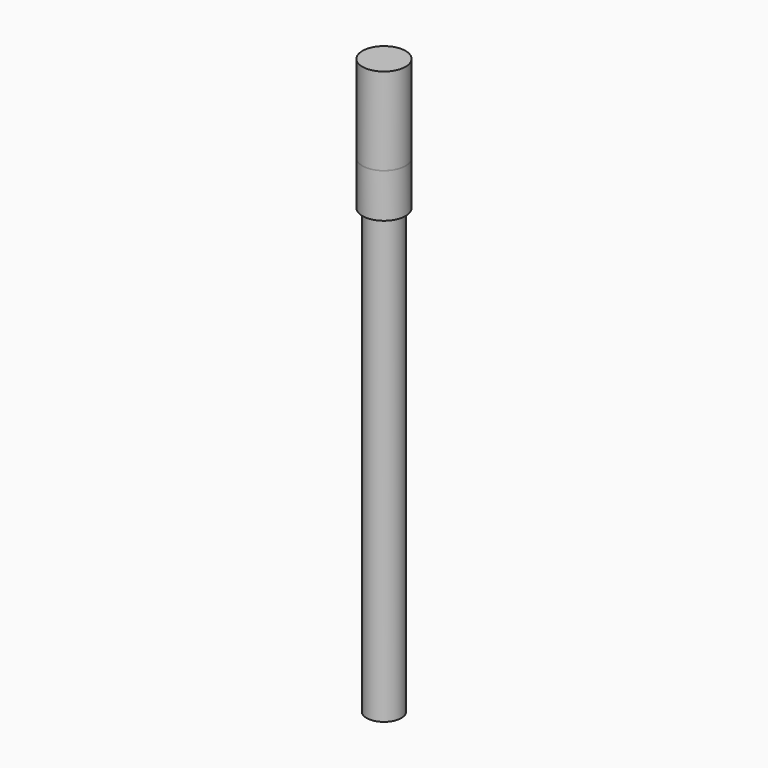
from build123d import *

# Parameters (mm, degrees)
F0_W = 0.85
F0_H = 122


with BuildPart() as f1:
    # F0 (on Front) → F1 (revolve)
    with BuildSketch(Plane.XZ):
        with Locations((-3.925, -61)):
            Rectangle(F0_W, F0_H)
    revolve(axis=Axis((0, 0, -4.035743), (0, 0, -1)))


with BuildPart() as f3:
    # F2 (on Front) → F3 (revolve)
    with BuildSketch(Plane.XZ):
        with BuildLine():
            Line((-4.636599, -10.944117), (-4.636599, 0.037941))
            ThreePointArc((-4.636599, 0.037941), (-3.278113, 3.313853), (0, 4.667017))
            Line((0, 4.667017), (0, 5.496188))
            ThreePointArc((0, 5.496188), (-3.826729, 3.882431), (-5.407882, 0.042116))
            Line((-5.407882, 0.042116), (-5.407882, -10.944117))
            Line((-5.407882, -10.944117), (-4.636599, -10.944117))
        make_face()
    revolve(axis=Axis((0, 0, 1.570861), (0, 0, 1)))


with BuildPart() as f5:
    # F4 (on Front) → F5 (revolve)
    with BuildSketch(Plane.XZ):
        Polygon((0, 21.108486), (0, 21.958486), (-5.4, 21.958486), (-5.4, -10.947178), (-4.55, -10.947178), (-4.55, 21.108625), align=None)
    revolve(axis=Axis((0, 0, -1.312066), (0, 0, -1)))


solid = Compound([f1.part, f3.part, f5.part])
